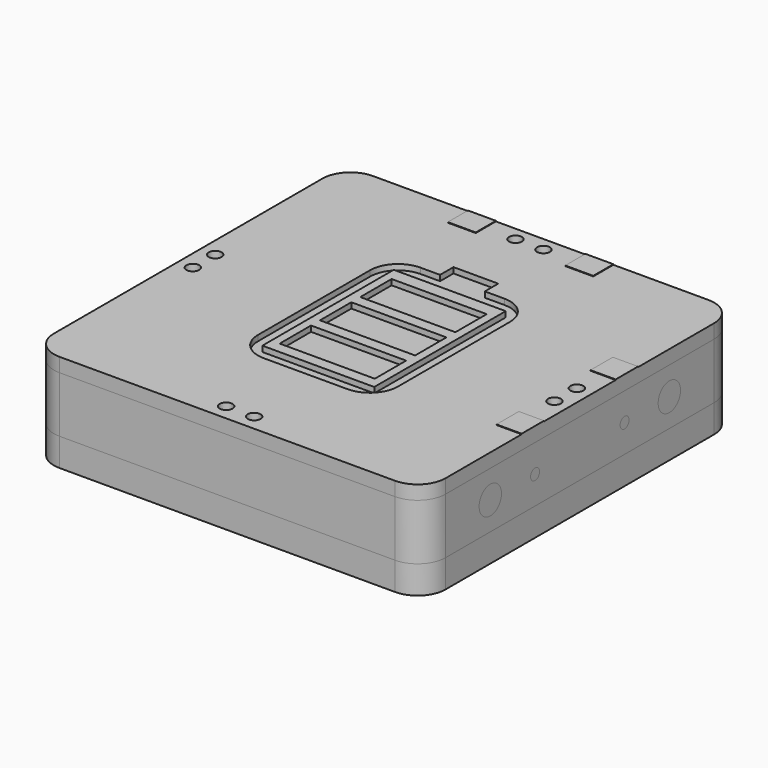
from build123d import *

# Parameters (mm, degrees)
F1_DEPTH  = 6.35
F2_W      = 76.2
F2_H      = 76.2
F3_DEPTH  = 12.7
F4_R      = 3.175
F5_DEPTH  = 25.4
F6_R      = 3.175
F6_R_2    = 1.27
F7_DEPTH  = 25.4
F9_DEPTH  = 3.175
F10_R     = 1.4605
F11_DEPTH = 15.875
F12_R     = 0.9652
F13_DEPTH = 6.35
F14_R     = 1.27
F15_DEPTH = 25.4
F16_W     = 25.4
F16_H     = 37.2814961416
F16_W_2   = 21.59
F16_H_2   = 8.89
F17_DEPTH = 1.27
F18_R     = 3.175
F19_DEPTH = 6.35
F18_R_2   = 1.27
F20_R     = 3.175
F21_DEPTH = 6.35
F20_R_2   = 1.27
F22_W     = 5.715
F22_H     = 6.35
F23_DEPTH = 0.127
F22_W_2   = 6.35
F22_H_2   = 5.715


with BuildPart() as f1:
    # F0 (on Top) → F1 (new body)
    with BuildSketch(Plane.XY):
        with BuildLine():
            Line((38.1, 44.45), (-38.1, 44.45))
            ThreePointArc((-38.1, 44.45), (-42.5901280605, 42.5901280605), (-44.45, 38.1))
            Line((-44.45, 38.1), (-44.45, -38.1))
            ThreePointArc((-44.45, -38.1), (-42.5901280605, -42.5901280605), (-38.1, -44.45))
            Line((-38.1, -44.45), (38.1, -44.45))
            ThreePointArc((38.1, -44.45), (42.5901280605, -42.5901280605), (44.45, -38.1))
            Line((44.45, -38.1), (44.45, 38.1))
            ThreePointArc((44.45, 38.1), (42.5901280605, 42.5901280605), (38.1, 44.45))
        make_face()
    extrude(amount=F1_DEPTH)

    # F12 (on face) → F13 (cut)
    with BuildSketch(Plane(origin=(0, 0, 0), x_dir=(1, 0, 0), z_dir=(0, 0, -1))):
        with Locations((3.175, -41.275)):
            Circle(F12_R)
        with Locations((-3.175, -41.275)):
            Circle(F12_R)
        with Locations((41.275, 3.175)):
            Circle(F12_R)
        with Locations((41.275, -3.175)):
            Circle(F12_R)
        with Locations((-3.175, 41.275)):
            Circle(F12_R)
        with Locations((3.175, 41.275)):
            Circle(F12_R)
        with Locations((-41.275, -3.175)):
            Circle(F12_R)
        with Locations((-41.275, 3.175)):
            Circle(F12_R)
    extrude(amount=-F13_DEPTH, mode=Mode.SUBTRACT)


with BuildPart() as f3:
    # F2 (on face) → F3 (new body)
    with BuildSketch(Plane.XY.offset(6.35)):
        with BuildLine():
            Line((38.1, 44.45), (-38.1, 44.45))
            ThreePointArc((-38.1, 44.45), (-42.5901280605, 42.5901280605), (-44.45, 38.1))
            Line((-44.45, 38.1), (-44.45, -38.1))
            ThreePointArc((-44.45, -38.1), (-42.5901280605, -42.5901280605), (-38.1, -44.45))
            Line((-38.1, -44.45), (38.1, -44.45))
            ThreePointArc((38.1, -44.45), (42.5901280605, -42.5901280605), (44.45, -38.1))
            Line((44.45, -38.1), (44.45, 38.1))
            ThreePointArc((44.45, 38.1), (42.5901280605, 42.5901280605), (38.1, 44.45))
        make_face()
        Rectangle(F2_W, F2_H, mode=Mode.SUBTRACT)
    extrude(amount=F3_DEPTH)

    # F4 (on face) → F5 (cut)
    with BuildSketch(Plane.YZ.offset(44.45)):
        with Locations((25.4, 12.7)):
            Circle(F4_R)
        with Locations((-25.4, 12.7)):
            Circle(F4_R)
    extrude(amount=-F5_DEPTH, mode=Mode.SUBTRACT)

    # F6 (on face) → F7 (cut)
    with BuildSketch(Plane(origin=(0, 44.45, 0), x_dir=(-1, 0, 0), z_dir=(0, 1, 0))):
        with Locations((25.4, 12.7)):
            Circle(F6_R)
        with Locations((-25.4, 12.7)):
            Circle(F6_R)
        with Locations((12.7, 12.7)):
            Circle(F6_R_2)
        with Locations((-12.7, 12.7)):
            Circle(F6_R_2)
    extrude(amount=-F7_DEPTH, mode=Mode.SUBTRACT)

    # F14 (on face) → F15 (cut)
    with BuildSketch(Plane.YZ.offset(44.45)):
        with Locations((-12.7, 12.7)):
            Circle(F14_R)
        with Locations((12.7, 12.7)):
            Circle(F14_R)
    extrude(amount=-F15_DEPTH, mode=Mode.SUBTRACT)


with BuildPart() as f9:
    # F8 (on face) → F9 (new body)
    with BuildSketch(Plane.XY.offset(19.05)):
        with BuildLine():
            Line((38.1, 44.45), (-38.1, 44.45))
            ThreePointArc((-38.1, 44.45), (-42.5901280605, 42.5901280605), (-44.45, 38.1))
            Line((-44.45, 38.1), (-44.45, -38.1))
            ThreePointArc((-44.45, -38.1), (-42.5901280605, -42.5901280605), (-38.1, -44.45))
            Line((-38.1, -44.45), (38.1, -44.45))
            ThreePointArc((38.1, -44.45), (42.5901280605, -42.5901280605), (44.45, -38.1))
            Line((44.45, -38.1), (44.45, 38.1))
            ThreePointArc((44.45, 38.1), (42.5901280605, 42.5901280605), (38.1, 44.45))
        make_face()
    extrude(amount=F9_DEPTH)

    # F10 (on face) → F11 (cut)
    with BuildSketch(Plane.XY.offset(22.225)):
        with Locations((-3.175, 41.275)):
            Circle(F10_R)
        with Locations((3.175, 41.275)):
            Circle(F10_R)
        with Locations((-41.0438623011, -2.9438623011)):
            Circle(F10_R)
        with Locations((-41.0438623011, 3.4061376989)):
            Circle(F10_R)
        with Locations((3.175, -40.8127246022)):
            Circle(F10_R)
        with Locations((-3.175, -40.8127246022)):
            Circle(F10_R)
        with Locations((41.0438623011, 3.4061376989)):
            Circle(F10_R)
        with Locations((41.0438623011, -2.9438623011)):
            Circle(F10_R)
    extrude(amount=-F11_DEPTH, mode=Mode.SUBTRACT)

    # F16 (on face) → F17 (cut)
    with BuildSketch(Plane.XY.offset(22.225)):
        with BuildLine():
            Line((-5.08, 22.2520089364), (-9.525, 22.2520089364))
            ThreePointArc((-9.525, 22.2520089364), (-14.0151280605, 20.392136997), (-15.875, 15.9020089364))
            Line((-15.875, 15.9020089364), (-15.875, -15.9020089364))
            ThreePointArc((-15.875, -15.9020089364), (-14.0151280605, -20.392136997), (-9.525, -22.2520089364))
            Line((-9.525, -22.2520089364), (9.525, -22.2520089364))
            ThreePointArc((9.525, -22.2520089364), (14.0151280605, -20.392136997), (15.875, -15.9020089364))
            Line((15.875, -15.9020089364), (15.875, 15.9020089364))
            ThreePointArc((15.875, 15.9020089364), (14.0151280605, 20.392136997), (9.525, 22.2520089364))
            Line((9.525, 22.2520089364), (5.08, 22.2520089364))
            Line((5.08, 22.2520089364), (5.08, 26.0620089364))
            Line((5.08, 26.0620089364), (-5.08, 26.0620089364))
            Line((-5.08, 26.0620089364), (-5.08, 22.2520089364))
        make_face()
        Rectangle(F16_W, F16_H, mode=Mode.SUBTRACT)
        with Locations((0, 11.2042519292)):
            Rectangle(F16_W_2, F16_H_2)
        with Locations((0, -0.2257480708)):
            Rectangle(F16_W_2, F16_H_2)
        with Locations((0, -11.6557480708)):
            Rectangle(F16_W_2, F16_H_2)
    extrude(amount=-F17_DEPTH, mode=Mode.SUBTRACT)


with BuildPart() as f19:
    # F18 (on face) → F19 (new body)
    with BuildSketch(Plane.YZ.offset(44.45)):
        with Locations((25.4, 12.7)):
            Circle(F18_R)
    extrude(amount=-F19_DEPTH)


with BuildPart() as f19b:
    # F18 (on face) → F19, piece 2 (new body)
    with BuildSketch(Plane.YZ.offset(44.45)):
        with Locations((-25.4, 12.7)):
            Circle(F18_R)
    extrude(amount=-F19_DEPTH)


with BuildPart() as f19c:
    # F18 (on face) → F19, piece 3 (new body)
    with BuildSketch(Plane.YZ.offset(44.45)):
        with Locations((-12.7, 12.7)):
            Circle(F18_R_2)
    extrude(amount=-F19_DEPTH)


with BuildPart() as f19d:
    # F18 (on face) → F19, piece 4 (new body)
    with BuildSketch(Plane.YZ.offset(44.45)):
        with Locations((12.7, 12.7)):
            Circle(F18_R_2)
    extrude(amount=-F19_DEPTH)


with BuildPart() as f21:
    # F20 (on face) → F21 (new body)
    with BuildSketch(Plane(origin=(0, 44.45, 0), x_dir=(-1, 0, 0), z_dir=(0, 1, 0))):
        with Locations((25.4, 12.7)):
            Circle(F20_R)
    extrude(amount=-F21_DEPTH)


with BuildPart() as f21b:
    # F20 (on face) → F21, piece 2 (new body)
    with BuildSketch(Plane(origin=(0, 44.45, 0), x_dir=(-1, 0, 0), z_dir=(0, 1, 0))):
        with Locations((12.7, 12.7)):
            Circle(F20_R_2)
    extrude(amount=-F21_DEPTH)


with BuildPart() as f21c:
    # F20 (on face) → F21, piece 3 (new body)
    with BuildSketch(Plane(origin=(0, 44.45, 0), x_dir=(-1, 0, 0), z_dir=(0, 1, 0))):
        with Locations((-12.7, 12.7)):
            Circle(F20_R_2)
    extrude(amount=-F21_DEPTH)


with BuildPart() as f21d:
    # F20 (on face) → F21, piece 4 (new body)
    with BuildSketch(Plane(origin=(0, 44.45, 0), x_dir=(-1, 0, 0), z_dir=(0, 1, 0))):
        with Locations((-25.4, 12.7)):
            Circle(F20_R)
    extrude(amount=-F21_DEPTH)


with BuildPart() as f23:
    # F22 (on face) → F23 (new body)
    with BuildSketch(Plane.XY.offset(22.225)):
        with Locations((41.5925, 13.335)):
            Rectangle(F22_W, F22_H)
    extrude(amount=F23_DEPTH)


with BuildPart() as f23b:
    # F22 (on face) → F23, piece 2 (new body)
    with BuildSketch(Plane.XY.offset(22.225)):
        with Locations((41.5925, -13.335)):
            Rectangle(F22_W, F22_H)
    extrude(amount=F23_DEPTH)


with BuildPart() as f23c:
    # F22 (on face) → F23, piece 3 (new body)
    with BuildSketch(Plane.XY.offset(22.225)):
        with Locations((-13.335, 41.5925)):
            Rectangle(F22_W_2, F22_H_2)
    extrude(amount=F23_DEPTH)


with BuildPart() as f23d:
    # F22 (on face) → F23, piece 4 (new body)
    with BuildSketch(Plane.XY.offset(22.225)):
        with Locations((13.335, 41.5925)):
            Rectangle(F22_W_2, F22_H_2)
    extrude(amount=F23_DEPTH)


solid = Compound([f1.part, f3.part, f9.part, f19.part, f19b.part, f19c.part, f19d.part, f21.part, f21b.part, f21c.part, f21d.part, f23.part, f23b.part, f23c.part, f23d.part])
